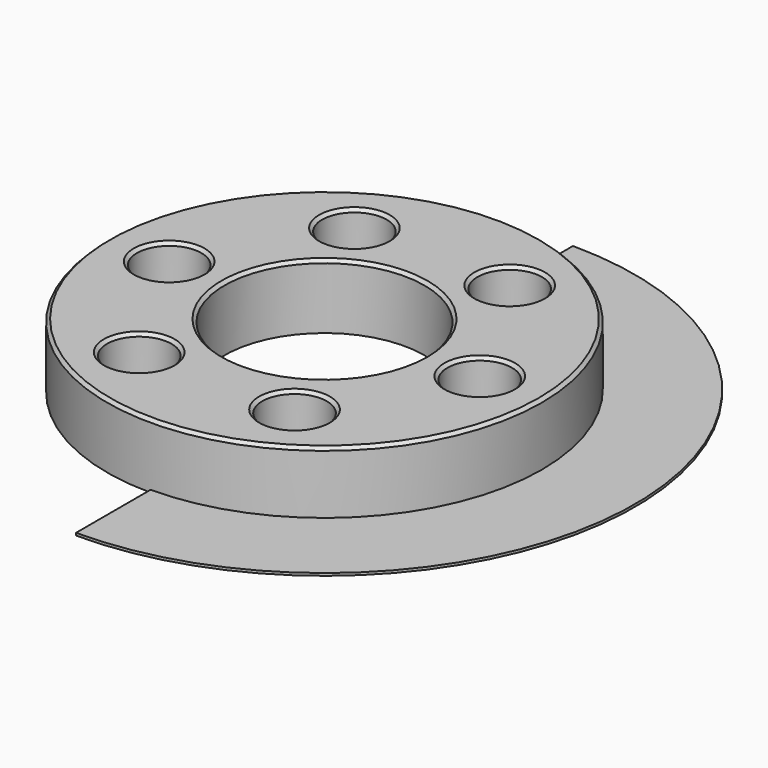
from build123d import *

# Parameters (mm, degrees)
SKETCH_R        = 17.5
SKETCH_R_2      = 8.05
SKETCH_R_3      = 2.6
PAD_DEPTH       = 5.2
SKETCH001_R     = 8.05
PAD001_DEPTH    = 0.2
CHAMFER001_SIZE = 0.25


with BuildPart() as part:
    # Sketch → Pad (new body)
    with BuildSketch(Plane.XY):
        Circle(SKETCH_R)
        Circle(SKETCH_R_2, mode=Mode.SUBTRACT)
        with Locations((12.5, 0)):
            Circle(SKETCH_R_3, mode=Mode.SUBTRACT)
        with Locations((-12.5, 0)):
            Circle(SKETCH_R_3, mode=Mode.SUBTRACT)
        with Locations((-6.25, 10.825318)):
            Circle(SKETCH_R_3, mode=Mode.SUBTRACT)
        with Locations((6.25, 10.825318)):
            Circle(SKETCH_R_3, mode=Mode.SUBTRACT)
        with Locations((-6.25, -10.825318)):
            Circle(SKETCH_R_3, mode=Mode.SUBTRACT)
        with Locations((6.25, -10.825318)):
            Circle(SKETCH_R_3, mode=Mode.SUBTRACT)
    extrude(amount=PAD_DEPTH)

    # Sketch001 → Pad001 (join)
    with BuildSketch(Plane.XY):
        with BuildLine():
            ThreePointArc((0, 17.5), (-17.5, 0), (0, -17.5))
            Line((0, -17.5), (0, -25))
            ThreePointArc((0, -25), (25, 0), (0, 25))
            Line((0, 17.5), (0, 25))
        make_face()
        Circle(SKETCH001_R, mode=Mode.SUBTRACT)
    extrude(amount=PAD001_DEPTH)

    # Chamfer001
    chamfer001_edges = [part.edges().sort_by_distance(p)[0] for p in [
        (-17.5, 0, 5.2),
        (-8.05, 0, 5.2),
        (3.65, -10.825318, 5.2),
        (-8.85, 10.825318, 5.2),
        (-15.1, 0, 5.2),
        (9.9, 0, 5.2),
        (-8.85, -10.825318, 5.2),
        (3.65, 10.825318, 5.2),
    ]]
    chamfer(chamfer001_edges, length=CHAMFER001_SIZE)


solid = part.part
